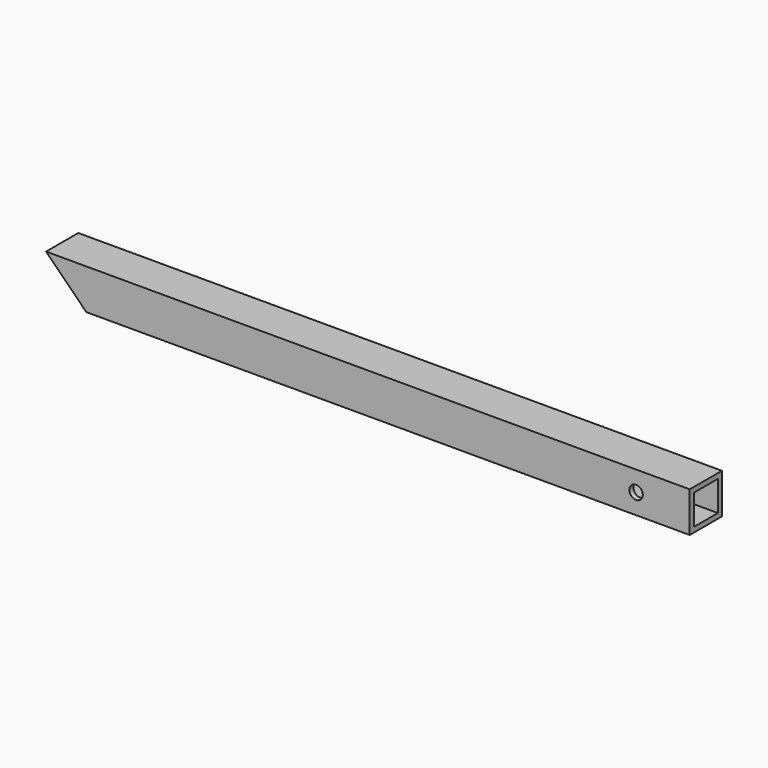
from build123d import *

# Parameters (mm, degrees)
F0_W     = 38.1
F0_H     = 38.1
F0_W_2   = 28.5496
F0_H_2   = 28.5496
F1_DEPTH = 609.6
F3_DEPTH = 38.101
F4_R     = 6.35
F5_DEPTH = 38.101


with BuildPart() as f1:
    # F0 (on Right) → F1 (new body)
    with BuildSketch(Plane.YZ):
        Rectangle(F0_W, F0_H)
        Rectangle(F0_W_2, F0_H_2, mode=Mode.SUBTRACT)
    extrude(amount=F1_DEPTH)

    # F2 (on face) → F3 (cut, through all)
    with BuildSketch(Plane(origin=(0, 19.05, 0), x_dir=(-1, 0, 0), z_dir=(0, 1, 0))):
        Polygon((0, -19.05), (0, 19.05), (-38.1, -19.05), align=None)
    extrude(amount=-F3_DEPTH, mode=Mode.SUBTRACT)

    # F4 (on face) → F5 (cut, through all)
    with BuildSketch(Plane(origin=(0, 19.05, 0), x_dir=(-1, 0, 0), z_dir=(0, 1, 0))):
        with Locations((-558.8, 0)):
            Circle(F4_R)
    extrude(amount=-F5_DEPTH, mode=Mode.SUBTRACT)


solid = f1.part
